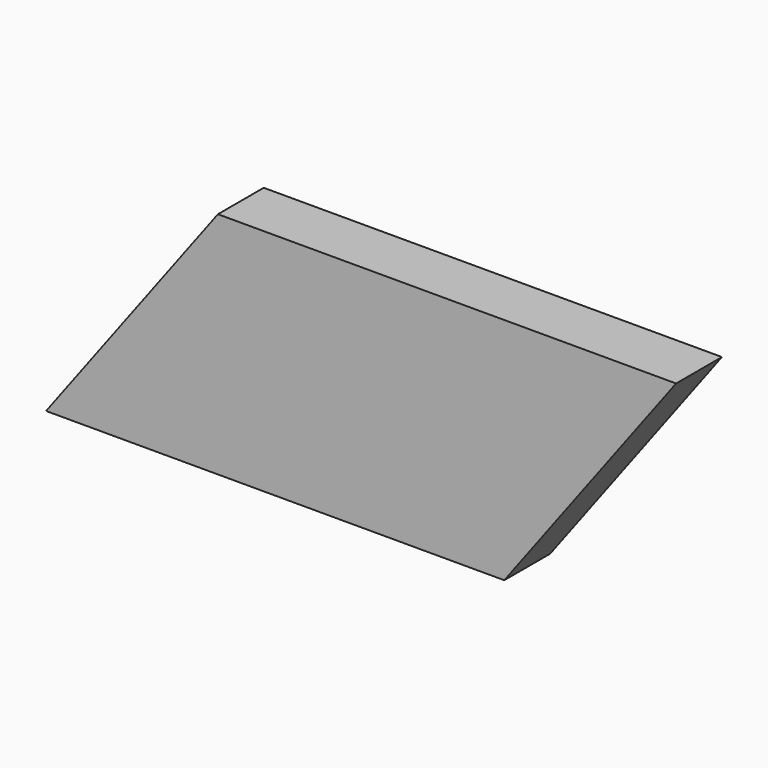
from build123d import *

# Parameters (mm, degrees)
F0_W     = 63.5
F0_H     = 50.8
F1_DEPTH = 6.35


with BuildPart() as f1:
    # F0 (on Front) → F1 (new body, symmetric)
    with BuildSketch(Plane.XZ):
        Polygon((-31.75, -25.4), (-31.75, 25.4), (-69.85, -25.4), align=None)
        Rectangle(F0_W, F0_H)
        Polygon((69.85, 25.4), (31.75, 25.4), (31.75, -25.4), align=None)
    extrude(amount=F1_DEPTH, both=True)


solid = f1.part
